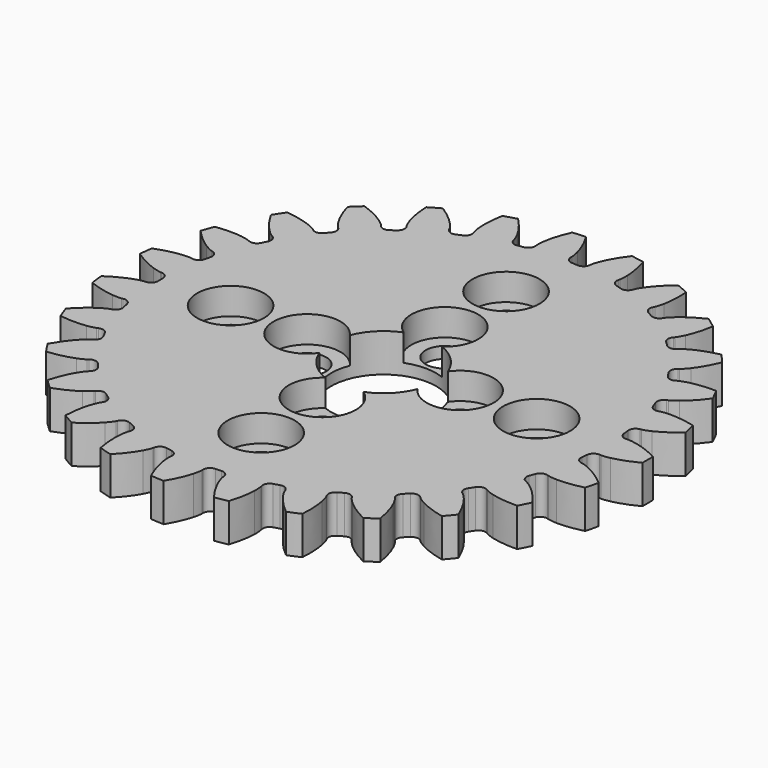
from build123d import *

# Parameters (mm, degrees)
PAD001_DEPTH    = 4
SKETCH002_R     = 5.5
SKETCH002_R_2   = 2
POCKET001_DEPTH = 5
SKETCH003_R     = 3.5
POCKET002_DEPTH = 2.8


with BuildPart() as part:
    # InvoluteGear003 → Pad001 (new body)
    with BuildSketch(Plane(origin=(0, -60, 0), x_dir=(1, 0, 0), z_dir=(0, 0, 1))):
        with BuildLine():
            Line((23.993407, -1.756615), (24.13748, -1.765721))
            add(Edge.make_bspline(
                [(24.13748, -1.765721), (24.23804, -1.767455), (24.541065, -1.761481), (25.045631, -1.655923)],
                knots=[0, 0, 0, 0, 1, 1, 1, 1], degree=3))
            add(Edge.make_bspline(
                [(25.045631, -1.655923), (25.650314, -1.527905), (26.524296, -1.258036), (27.612876, -0.692136)],
                knots=[0, 0, 0, 0, 1, 1, 1, 1], degree=3))
            ThreePointArc((27.612876, -0.692136), (27.620575, 0.000358), (27.610909, 0.692827))
            add(Edge.make_bspline(
                [(27.610909, 0.692827), (26.524296, 1.258036), (25.650314, 1.527905), (25.045631, 1.655923)],
                knots=[0, 0, 0, 0, 1, 1, 1, 1], degree=3))
            add(Edge.make_bspline(
                [(25.045631, 1.655923), (24.541065, 1.761481), (24.23804, 1.767455), (24.13748, 1.765721)],
                knots=[0, 0, 0, 0, 1, 1, 1, 1], degree=3))
            Line((24.13748, 1.765721), (23.993407, 1.756615))
            ThreePointArc((23.993407, 1.756615), (23.469192, 1.919193), (23.209751, 2.402849))
            ThreePointArc((23.209751, 2.402849), (23.176025, 2.708889), (23.138264, 3.014457))
            ThreePointArc((23.138264, 3.014457), (23.279173, 3.544907), (23.751765, 3.823995))
            Line((23.751765, 3.823995), (23.894055, 3.84836))
            add(Edge.make_bspline(
                [(23.894055, 3.84836), (23.992304, 3.869864), (24.285783, 3.945559), (24.752405, 4.164633)],
                knots=[0, 0, 0, 0, 1, 1, 1, 1], degree=3))
            add(Edge.make_bspline(
                [(24.752405, 4.164633), (25.311266, 4.42865), (26.099454, 4.892798), (27.028185, 5.694488)],
                knots=[0, 0, 0, 0, 1, 1, 1, 1], degree=3))
            ThreePointArc((27.028185, 5.694488), (26.875976, 6.370091), (26.706877, 7.041665))
            add(Edge.make_bspline(
                [(26.706877, 7.041665), (25.519208, 7.341049), (24.606548, 7.40209), (23.988641, 7.387207)],
                knots=[0, 0, 0, 0, 1, 1, 1, 1], degree=3))
            add(Edge.make_bspline(
                [(23.988641, 7.387207), (23.473332, 7.373559), (23.177098, 7.30949), (23.079648, 7.284612)],
                knots=[0, 0, 0, 0, 1, 1, 1, 1], degree=3))
            Line((23.079648, 7.284612), (22.941558, 7.242526))
            ThreePointArc((22.941558, 7.242526), (22.393981, 7.279829), (22.029994, 7.690617))
            ThreePointArc((22.029994, 7.690617), (21.9266, 7.98063), (21.819388, 8.269253))
            ThreePointArc((21.819388, 8.269253), (21.834168, 8.817901), (22.229659, 9.198453))
            Line((22.229659, 9.198453), (22.362494, 9.254975))
            add(Edge.make_bspline(
                [(22.362494, 9.254975), (22.453136, 9.298557), (22.721248, 9.439893), (23.124771, 9.760672)],
                knots=[0, 0, 0, 0, 1, 1, 1, 1], degree=3))
            add(Edge.make_bspline(
                [(23.124771, 9.760672), (23.60768, 10.146454), (24.267583, 10.779861), (24.986397, 11.774121)],
                knots=[0, 0, 0, 0, 1, 1, 1, 1], degree=3))
            ThreePointArc((24.986397, 11.774121), (24.682487, 12.396411), (24.363069, 13.010886))
            add(Edge.make_bspline(
                [(24.363069, 13.010886), (23.138372, 13.028305), (22.236236, 12.877226), (21.638417, 12.720246)],
                knots=[0, 0, 0, 0, 1, 1, 1, 1], degree=3))
            add(Edge.make_bspline(
                [(21.638417, 12.720246), (21.140145, 12.588126), (20.866672, 12.457468), (20.777586, 12.410788)],
                knots=[0, 0, 0, 0, 1, 1, 1, 1], degree=3))
            Line((20.777586, 12.410788), (20.652924, 12.33799))
            ThreePointArc((20.652924, 12.33799), (20.111504, 12.248008), (19.662595, 12.563781))
            ThreePointArc((19.662595, 12.563781), (19.495105, 12.822133), (19.324222, 13.078251))
            ThreePointArc((19.324222, 13.078251), (19.212078, 13.615519), (19.509147, 14.077019))
            Line((19.509147, 14.077019), (19.625366, 14.162652))
            add(Edge.make_bspline(
                [(19.625366, 14.162652), (19.703514, 14.225963), (19.931804, 14.42532), (20.250473, 14.830511)],
                knots=[0, 0, 0, 0, 1, 1, 1, 1], degree=3))
            add(Edge.make_bspline(
                [(20.250473, 14.830511), (20.631399, 15.317261), (21.12744, 16.085778), (21.597586, 17.219007)],
                knots=[0, 0, 0, 0, 1, 1, 1, 1], degree=3))
            ThreePointArc((21.597586, 17.219007), (21.158358, 17.754437), (20.705843, 18.278686))
            add(Edge.make_bspline(
                [(20.705843, 18.278686), (19.51014, 18.013201), (18.667162, 17.658147), (18.12166, 17.367532)],
                knots=[0, 0, 0, 0, 1, 1, 1, 1], degree=3))
            add(Edge.make_bspline(
                [(18.12166, 17.367532), (17.667288, 17.124065), (17.431318, 16.933861), (17.355399, 16.867894)],
                knots=[0, 0, 0, 0, 1, 1, 1, 1], degree=3))
            Line((17.355399, 16.867894), (17.250886, 16.76831))
            ThreePointArc((17.250886, 16.76831), (16.744811, 16.555893), (16.235179, 16.759629))
            ThreePointArc((16.235179, 16.759629), (16.012625, 16.972391), (15.787283, 17.182198))
            ThreePointArc((15.787283, 17.182198), (15.554259, 17.679121), (15.736891, 18.19669))
            Line((15.736891, 18.19669), (15.83023, 18.306817))
            add(Edge.make_bspline(
                [(15.83023, 18.306817), (15.891671, 18.386443), (16.067832, 18.633074), (16.284468, 19.100833)],
                knots=[0, 0, 0, 0, 1, 1, 1, 1], degree=3))
            add(Edge.make_bspline(
                [(16.284468, 19.100833), (16.542873, 19.66231), (16.848311, 20.524506), (17.044444, 21.735613)],
                knots=[0, 0, 0, 0, 1, 1, 1, 1], degree=3))
            ThreePointArc((17.044444, 21.735613), (16.493577, 22.155317), (15.932359, 22.561078))
            add(Edge.make_bspline(
                [(15.932359, 22.561078), (14.830112, 22.027), (14.091738, 21.487113), (13.62796, 21.07853)],
                knots=[0, 0, 0, 0, 1, 1, 1, 1], degree=3))
            add(Edge.make_bspline(
                [(13.62796, 21.07853), (13.241983, 20.73684), (13.056237, 20.497345), (12.997578, 20.415648)],
                knots=[0, 0, 0, 0, 1, 1, 1, 1], degree=3))
            Line((12.997578, 20.415648), (12.918847, 20.294646))
            ThreePointArc((12.918847, 20.294646), (12.475401, 19.971246), (11.932522, 20.051961))
            ThreePointArc((11.932522, 20.051961), (11.6669, 20.207664), (11.399247, 20.359847))
            ThreePointArc((11.399247, 20.359847), (11.057906, 20.789637), (11.116255, 21.335373))
            Line((11.116255, 21.335373), (11.181681, 21.464057))
            add(Edge.make_bspline(
                [(11.181681, 21.464057), (11.223103, 21.555706), (11.337639, 21.836314), (11.440563, 22.341424)],
                knots=[0, 0, 0, 0, 1, 1, 1, 1], degree=3))
            add(Edge.make_bspline(
                [(11.440563, 22.341424), (11.562517, 22.947359), (11.660886, 23.856754), (11.572432, 25.080446)],
                knots=[0, 0, 0, 0, 1, 1, 1, 1], degree=3))
            ThreePointArc((11.572432, 25.080446), (10.939622, 25.361798), (10.299958, 25.627196))
            add(Edge.make_bspline(
                [(10.299958, 25.627196), (9.350588, 24.853319), (8.756624, 24.157704), (8.399573, 23.65318)],
                knots=[0, 0, 0, 0, 1, 1, 1, 1], degree=3))
            add(Edge.make_bspline(
                [(8.399573, 23.65318), (8.102799, 23.231688), (7.977292, 22.955812), (7.939054, 22.86279)],
                knots=[0, 0, 0, 0, 1, 1, 1, 1], degree=3))
            Line((7.939054, 22.86279), (7.890351, 22.726892))
            ThreePointArc((7.890351, 22.726892), (7.533438, 22.309944), (6.986578, 22.263287))
            ThreePointArc((6.986578, 22.263287), (6.692209, 22.353536), (6.396675, 22.439892))
            ThreePointArc((6.396675, 22.439892), (5.965419, 22.779378), (5.89634, 23.32386))
            Line((5.89634, 23.32386), (5.930326, 23.464163))
            add(Edge.make_bspline(
                [(5.930326, 23.464163), (5.949495, 23.562895), (5.996231, 23.862353), (5.979894, 24.377584)],
                knots=[0, 0, 0, 0, 1, 1, 1, 1], degree=3))
            add(Edge.make_bspline(
                [(5.979894, 24.377584), (5.958823, 24.99531), (5.844819, 25.902877), (5.476547, 27.073186)],
                knots=[0, 0, 0, 0, 1, 1, 1, 1], degree=3))
            ThreePointArc((5.476547, 27.073186), (4.79591, 27.201018), (4.112283, 27.311745))
            add(Edge.make_bspline(
                [(4.112283, 27.311745), (3.366972, 26.339788), (2.949438, 25.525946), (2.718362, 24.95268)],
                knots=[0, 0, 0, 0, 1, 1, 1, 1], degree=3))
            add(Edge.make_bspline(
                [(2.718362, 24.95268), (2.526791, 24.474109), (2.468288, 24.176725), (2.452533, 24.077392)],
                knots=[0, 0, 0, 0, 1, 1, 1, 1], degree=3))
            Line((2.452533, 24.077392), (2.436483, 23.933926))
            ThreePointArc((2.436483, 23.933926), (2.185346, 23.445907), (1.663987, 23.274393))
            ThreePointArc((1.663987, 23.274393), (1.35674, 23.294323), (1.049256, 23.310197))
            ThreePointArc((1.049256, 23.310197), (0.551334, 23.541077), (0.358551, 24.054952))
            Line((0.358551, 24.054952), (0.359264, 24.199311))
            add(Edge.make_bspline(
                [(0.359264, 24.199311), (0.355148, 24.299802), (0.331564, 24.601966), (0.196848, 25.099541)],
                knots=[0, 0, 0, 0, 1, 1, 1, 1], degree=3))
            add(Edge.make_bspline(
                [(0.196848, 25.099541), (0.033887, 25.695758), (-0.286343, 26.55257), (-0.914581, 27.606403)],
                knots=[0, 0, 0, 0, 1, 1, 1, 1], degree=3))
            ThreePointArc((-0.914581, 27.606403), (-1.606351, 27.573824), (-2.297086, 27.523911))
            add(Edge.make_bspline(
                [(-2.297086, 27.523911), (-2.798158, 26.406273), (-3.016753, 25.518078), (-3.109395, 24.906975)],
                knots=[0, 0, 0, 0, 1, 1, 1, 1], degree=3))
            add(Edge.make_bspline(
                [(-3.109395, 24.906975), (-3.185436, 24.397124), (-3.173781, 24.094265), (-3.166204, 23.993976)],
                knots=[0, 0, 0, 0, 1, 1, 1, 1], degree=3))
            Line((-3.166204, 23.993976), (-3.148736, 23.850676))
            ThreePointArc((-3.148736, 23.850676), (-3.280558, 23.317895), (-3.74831, 23.030771))
            ThreePointArc((-3.74831, 23.030771), (-4.051872, 22.979307), (-4.354728, 22.923843))
            ThreePointArc((-4.354728, 22.923843), (-4.892473, 23.033671), (-5.198568, 23.489235))
            Line((-5.198568, 23.489235), (-5.231165, 23.629867))
            add(Edge.make_bspline(
                [(-5.231165, 23.629867), (-5.258345, 23.7267), (-5.350977, 24.015281), (-5.596811, 24.468376)],
                knots=[0, 0, 0, 0, 1, 1, 1, 1], degree=3))
            add(Edge.make_bspline(
                [(-5.596811, 24.468376), (-5.892876, 25.01094), (-6.402069, 25.770807), (-7.256403, 26.651352)],
                knots=[0, 0, 0, 0, 1, 1, 1, 1], degree=3))
            ThreePointArc((-7.256403, 26.651352), (-7.922013, 26.460118), (-8.582619, 26.252256))
            add(Edge.make_bspline(
                [(-8.582619, 26.252256), (-8.812439, 25.049189), (-8.82031, 24.134524), (-8.769525, 23.518528)],
                knots=[0, 0, 0, 0, 1, 1, 1, 1], degree=3))
            add(Edge.make_bspline(
                [(-8.769525, 23.518528), (-8.725937, 23.004884), (-8.644752, 22.712877), (-8.61425, 22.617038)],
                knots=[0, 0, 0, 0, 1, 1, 1, 1], degree=3))
            Line((-8.61425, 22.617038), (-8.564206, 22.481629))
            ThreePointArc((-8.564206, 22.481629), (-8.569607, 21.932809), (-8.958535, 21.545553))
            ThreePointArc((-8.958535, 21.545553), (-9.242046, 21.425471), (-9.523947, 21.301658))
            ThreePointArc((-9.523947, 21.301658), (-10.072526, 21.284513), (-10.47543, 21.657208))
            Line((-10.47543, 21.657208), (-10.53958, 21.786532))
            add(Edge.make_bspline(
                [(-10.53958, 21.786532), (-10.588359, 21.874486), (-10.745045, 22.133926), (-11.088744, 22.518114)],
                knots=[0, 0, 0, 0, 1, 1, 1, 1], degree=3))
            add(Edge.make_bspline(
                [(-11.088744, 22.518114), (-11.501953, 22.977776), (-12.172657, 23.599733), (-13.20703, 24.25952)],
                knots=[0, 0, 0, 0, 1, 1, 1, 1], degree=3))
            ThreePointArc((-13.20703, 24.25952), (-13.810597, 23.91994), (-14.40546, 23.565335))
            add(Edge.make_bspline(
                [(-14.40546, 23.565335), (-14.351639, 22.341697), (-14.148362, 21.449871), (-13.956887, 20.862191)],
                knots=[0, 0, 0, 0, 1, 1, 1, 1], degree=3))
            add(Edge.make_bspline(
                [(-13.956887, 20.862191), (-13.796019, 20.372445), (-13.649681, 20.107031), (-13.5979, 20.02081)],
                knots=[0, 0, 0, 0, 1, 1, 1, 1], degree=3))
            Line((-13.5979, 20.02081), (-13.517977, 19.900592))
            ThreePointArc((-13.517977, 19.900592), (-13.396666, 19.36532), (-13.685804, 18.89881))
            ThreePointArc((-13.685804, 18.89881), (-13.933979, 18.716582), (-14.179729, 18.531096))
            ThreePointArc((-14.179729, 18.531096), (-14.709566, 18.387902), (-15.187559, 18.657634))
            Line((-15.187559, 18.657634), (-15.279805, 18.768678))
            add(Edge.make_bspline(
                [(-15.279805, 18.768678), (-15.347552, 18.843013), (-15.559846, 19.059325), (-15.98288, 19.353895)],
                knots=[0, 0, 0, 0, 1, 1, 1, 1], degree=3))
            add(Edge.make_bspline(
                [(-15.98288, 19.353895), (-16.490956, 19.705874), (-17.287014, 20.156391), (-18.445663, 20.55985)],
                knots=[0, 0, 0, 0, 1, 1, 1, 1], degree=3))
            ThreePointArc((-18.445663, 20.55985), (-18.954649, 20.090233), (-19.451699, 19.608001))
            add(Edge.make_bspline(
                [(-19.451699, 19.608001), (-19.117139, 18.429757), (-18.713671, 17.608851), (-18.39183, 17.081169)],
                knots=[0, 0, 0, 0, 1, 1, 1, 1], degree=3))
            add(Edge.make_bspline(
                [(-18.39183, 17.081169), (-18.122355, 16.641722), (-17.918753, 16.41721), (-17.848483, 16.345255)],
                knots=[0, 0, 0, 0, 1, 1, 1, 1], degree=3))
            Line((-17.848483, 16.345255), (-17.74299, 16.246709))
            ThreePointArc((-17.74299, 16.246709), (-17.501507, 15.753842), (-17.675266, 15.233226))
            ThreePointArc((-17.675266, 15.233226), (-17.874728, 14.998678), (-18.071077, 14.761517))
            ThreePointArc((-18.071077, 14.761517), (-18.55361, 14.499994), (-19.080923, 14.652223))
            Line((-19.080923, 14.652223), (-19.196291, 14.739001))
            add(Edge.make_bspline(
                [(-19.196291, 14.739001), (-19.279355, 14.795708), (-19.535811, 14.957231), (-20.015375, 15.146303)],
                knots=[0, 0, 0, 0, 1, 1, 1, 1], degree=3))
            add(Edge.make_bspline(
                [(-20.015375, 15.146303), (-20.590927, 15.371624), (-21.469424, 15.626413), (-22.689886, 15.751794)],
                knots=[0, 0, 0, 0, 1, 1, 1, 1], degree=3))
            ThreePointArc((-22.689886, 15.751794), (-23.07685, 15.177455), (-23.449292, 14.593594))
            add(Edge.make_bspline(
                [(-23.449292, 14.593594), (-22.852028, 13.524265), (-22.270122, 12.818532), (-21.835264, 12.379296)],
                knots=[0, 0, 0, 0, 1, 1, 1, 1], degree=3))
            add(Edge.make_bspline(
                [(-21.835264, 12.379296), (-21.47171, 12.01384), (-21.22182, 11.842334), (-21.13685, 11.788523)],
                knots=[0, 0, 0, 0, 1, 1, 1, 1], degree=3))
            Line((-21.13685, 11.788523), (-21.011475, 11.716962))
            ThreePointArc((-21.011475, 11.716962), (-20.662838, 11.293069), (-20.711851, 10.746416))
            ThreePointArc((-20.711851, 10.746416), (-20.851845, 10.47219), (-20.988209, 10.196142))
            ThreePointArc((-20.988209, 10.196142), (-21.397424, 9.830388), (-21.94563, 9.856907))
            Line((-21.94563, 9.856907), (-22.0779, 9.91474))
            add(Edge.make_bspline(
                [(-22.0779, 9.91474), (-22.171802, 9.950762), (-22.458596, 10.048789), (-22.968836, 10.122169)],
                knots=[0, 0, 0, 0, 1, 1, 1, 1], degree=3))
            add(Edge.make_bspline(
                [(-22.968836, 10.122169), (-23.580837, 10.208685), (-24.494412, 10.254011), (-25.710891, 10.094555)],
                knots=[0, 0, 0, 0, 1, 1, 1, 1], degree=3))
            ThreePointArc((-25.710891, 10.094555), (-25.954973, 9.446457), (-26.182728, 8.792443))
            add(Edge.make_bspline(
                [(-26.182728, 8.792443), (-25.354959, 7.889677), (-24.625985, 7.337163), (-24.101554, 7.010052)],
                knots=[0, 0, 0, 0, 1, 1, 1, 1], degree=3))
            add(Edge.make_bspline(
                [(-24.101554, 7.010052), (-23.663519, 6.738288), (-23.380813, 6.629034), (-23.285724, 6.596269)],
                knots=[0, 0, 0, 0, 1, 1, 1, 1], degree=3))
            Line((-23.285724, 6.596269), (-23.147225, 6.55555))
            ThreePointArc((-23.147225, 6.55555), (-22.710229, 6.223485), (-22.631854, 5.680263))
            ThreePointArc((-22.631854, 5.680263), (-22.704834, 5.381145), (-22.773861, 5.081089))
            ThreePointArc((-22.773861, 5.081089), (-23.087697, 4.630823), (-23.627241, 4.530202))
            Line((-23.627241, 4.530202), (-23.769283, 4.555973))
            add(Edge.make_bspline(
                [(-23.769283, 4.555973), (-23.868962, 4.569369), (-24.170631, 4.598614), (-24.684041, 4.552347)],
                knots=[0, 0, 0, 0, 1, 1, 1, 1], degree=3))
            add(Edge.make_bspline(
                [(-24.684041, 4.552347), (-25.299497, 4.495393), (-26.1989, 4.328812), (-27.345815, 3.893115)],
                knots=[0, 0, 0, 0, 1, 1, 1, 1], degree=3))
            ThreePointArc((-27.345815, 3.893115), (-27.433856, 3.206198), (-27.504646, 2.517289))
            add(Edge.make_bspline(
                [(-27.504646, 2.517289), (-26.490998, 1.829753), (-25.654255, 1.460246), (-25.068523, 1.262894)],
                knots=[0, 0, 0, 0, 1, 1, 1, 1], degree=3))
            add(Edge.make_bspline(
                [(-25.068523, 1.262894), (-24.579622, 1.099474), (-24.27934, 1.058361), (-24.179259, 1.048408)],
                knots=[0, 0, 0, 0, 1, 1, 1, 1], degree=3))
            Line((-24.179259, 1.048408), (-24.035103, 1.040727))
            ThreePointArc((-24.035103, 1.040727), (-23.533307, 0.818391), (-23.331769, 0.307886))
            ThreePointArc((-23.331769, 0.307886), (-23.3338, 0), (-23.331769, -0.307886))
            ThreePointArc((-23.331769, -0.307886), (-23.533307, -0.818391), (-24.035103, -1.040727))
            Line((-24.035103, -1.040727), (-24.179259, -1.048408))
            add(Edge.make_bspline(
                [(-24.179259, -1.048408), (-24.27934, -1.058361), (-24.579622, -1.099474), (-25.068523, -1.262894)],
                knots=[0, 0, 0, 0, 1, 1, 1, 1], degree=3))
            add(Edge.make_bspline(
                [(-25.068523, -1.262894), (-25.654255, -1.460246), (-26.490998, -1.829753), (-27.506519, -2.518203)],
                knots=[0, 0, 0, 0, 1, 1, 1, 1], degree=3))
            ThreePointArc((-27.506519, -2.518203), (-27.433773, -3.206908), (-27.343782, -3.893573))
            add(Edge.make_bspline(
                [(-27.343782, -3.893573), (-26.1989, -4.328812), (-25.299497, -4.495393), (-24.684041, -4.552347)],
                knots=[0, 0, 0, 0, 1, 1, 1, 1], degree=3))
            add(Edge.make_bspline(
                [(-24.684041, -4.552347), (-24.170631, -4.598614), (-23.868962, -4.569369), (-23.769283, -4.555973)],
                knots=[0, 0, 0, 0, 1, 1, 1, 1], degree=3))
            Line((-23.769283, -4.555973), (-23.627241, -4.530202))
            ThreePointArc((-23.627241, -4.530202), (-23.087697, -4.630823), (-22.773861, -5.081089))
            ThreePointArc((-22.773861, -5.081089), (-22.704834, -5.381145), (-22.631854, -5.680263))
            ThreePointArc((-22.631854, -5.680263), (-22.710229, -6.223485), (-23.147225, -6.55555))
            Line((-23.147225, -6.55555), (-23.285724, -6.596269))
            add(Edge.make_bspline(
                [(-23.285724, -6.596269), (-23.380813, -6.629034), (-23.663519, -6.738288), (-24.101554, -7.010052)],
                knots=[0, 0, 0, 0, 1, 1, 1, 1], degree=3))
            add(Edge.make_bspline(
                [(-24.101554, -7.010052), (-24.625985, -7.337163), (-25.354959, -7.889677), (-26.18434, -8.793765)],
                knots=[0, 0, 0, 0, 1, 1, 1, 1], degree=3))
            ThreePointArc((-26.18434, -8.793765), (-25.954728, -9.447129), (-25.708807, -10.094531))
            add(Edge.make_bspline(
                [(-25.708807, -10.094531), (-24.494412, -10.254011), (-23.580837, -10.208685), (-22.968836, -10.122169)],
                knots=[0, 0, 0, 0, 1, 1, 1, 1], degree=3))
            add(Edge.make_bspline(
                [(-22.968836, -10.122169), (-22.458596, -10.048789), (-22.171802, -9.950762), (-22.0779, -9.91474)],
                knots=[0, 0, 0, 0, 1, 1, 1, 1], degree=3))
            Line((-22.0779, -9.91474), (-21.94563, -9.856907))
            ThreePointArc((-21.94563, -9.856907), (-21.397424, -9.830388), (-20.988209, -10.196142))
            ThreePointArc((-20.988209, -10.196142), (-20.851845, -10.47219), (-20.711851, -10.746416))
            ThreePointArc((-20.711851, -10.746416), (-20.662838, -11.293069), (-21.011475, -11.716962))
            Line((-21.011475, -11.716962), (-21.13685, -11.788523))
            add(Edge.make_bspline(
                [(-21.13685, -11.788523), (-21.22182, -11.842334), (-21.47171, -12.01384), (-21.835264, -12.379296)],
                knots=[0, 0, 0, 0, 1, 1, 1, 1], degree=3))
            add(Edge.make_bspline(
                [(-21.835264, -12.379296), (-22.270122, -12.818532), (-22.852028, -13.524265), (-23.450556, -14.595252)],
                knots=[0, 0, 0, 0, 1, 1, 1, 1], degree=3))
            ThreePointArc((-23.450556, -14.595252), (-23.076457, -15.178053), (-22.687863, -15.751291))
            add(Edge.make_bspline(
                [(-22.687863, -15.751291), (-21.469424, -15.626413), (-20.590927, -15.371624), (-20.015375, -15.146303)],
                knots=[0, 0, 0, 0, 1, 1, 1, 1], degree=3))
            add(Edge.make_bspline(
                [(-20.015375, -15.146303), (-19.535811, -14.957231), (-19.279355, -14.795708), (-19.196291, -14.739001)],
                knots=[0, 0, 0, 0, 1, 1, 1, 1], degree=3))
            Line((-19.196291, -14.739001), (-19.080923, -14.652223))
            ThreePointArc((-19.080923, -14.652223), (-18.55361, -14.499994), (-18.071077, -14.761517))
            ThreePointArc((-18.071077, -14.761517), (-17.874728, -14.998678), (-17.675266, -15.233226))
            ThreePointArc((-17.675266, -15.233226), (-17.501507, -15.753842), (-17.74299, -16.246709))
            Line((-17.74299, -16.246709), (-17.848483, -16.345255))
            add(Edge.make_bspline(
                [(-17.848483, -16.345255), (-17.918753, -16.41721), (-18.122355, -16.641722), (-18.39183, -17.081169)],
                knots=[0, 0, 0, 0, 1, 1, 1, 1], degree=3))
            add(Edge.make_bspline(
                [(-18.39183, -17.081169), (-18.713671, -17.608851), (-19.117139, -18.429757), (-19.452547, -19.609905)],
                knots=[0, 0, 0, 0, 1, 1, 1, 1], degree=3))
            ThreePointArc((-19.452547, -19.609905), (-18.954128, -20.090723), (-18.443811, -20.558894))
            add(Edge.make_bspline(
                [(-18.443811, -20.558894), (-17.287014, -20.156391), (-16.490956, -19.705874), (-15.98288, -19.353895)],
                knots=[0, 0, 0, 0, 1, 1, 1, 1], degree=3))
            add(Edge.make_bspline(
                [(-15.98288, -19.353895), (-15.559846, -19.059325), (-15.347552, -18.843013), (-15.279805, -18.768678)],
                knots=[0, 0, 0, 0, 1, 1, 1, 1], degree=3))
            Line((-15.279805, -18.768678), (-15.187559, -18.657634))
            ThreePointArc((-15.187559, -18.657634), (-14.709566, -18.387902), (-14.179729, -18.531096))
            ThreePointArc((-14.179729, -18.531096), (-13.933979, -18.716582), (-13.685804, -18.89881))
            ThreePointArc((-13.685804, -18.89881), (-13.396666, -19.36532), (-13.517977, -19.900592))
            Line((-13.517977, -19.900592), (-13.5979, -20.02081))
            add(Edge.make_bspline(
                [(-13.5979, -20.02081), (-13.649681, -20.107031), (-13.796019, -20.372445), (-13.956887, -20.862191)],
                knots=[0, 0, 0, 0, 1, 1, 1, 1], degree=3))
            add(Edge.make_bspline(
                [(-13.956887, -20.862191), (-14.148362, -21.449871), (-14.351639, -22.341697), (-14.405845, -23.567384)],
                knots=[0, 0, 0, 0, 1, 1, 1, 1], degree=3))
            ThreePointArc((-14.405845, -23.567384), (-13.809978, -23.920298), (-13.205449, -24.258162))
            add(Edge.make_bspline(
                [(-13.205449, -24.258162), (-12.172657, -23.599733), (-11.501953, -22.977776), (-11.088744, -22.518114)],
                knots=[0, 0, 0, 0, 1, 1, 1, 1], degree=3))
            add(Edge.make_bspline(
                [(-11.088744, -22.518114), (-10.745045, -22.133926), (-10.588359, -21.874486), (-10.53958, -21.786532)],
                knots=[0, 0, 0, 0, 1, 1, 1, 1], degree=3))
            Line((-10.53958, -21.786532), (-10.47543, -21.657208))
            ThreePointArc((-10.47543, -21.657208), (-10.072526, -21.284513), (-9.523947, -21.301658))
            ThreePointArc((-9.523947, -21.301658), (-9.242046, -21.425471), (-8.958535, -21.545553))
            ThreePointArc((-8.958535, -21.545553), (-8.569607, -21.932809), (-8.564206, -22.481629))
            Line((-8.564206, -22.481629), (-8.61425, -22.617038))
            add(Edge.make_bspline(
                [(-8.61425, -22.617038), (-8.644752, -22.712877), (-8.725937, -23.004884), (-8.769525, -23.518528)],
                knots=[0, 0, 0, 0, 1, 1, 1, 1], degree=3))
            add(Edge.make_bspline(
                [(-8.769525, -23.518528), (-8.82031, -24.134524), (-8.812439, -25.049189), (-8.582521, -26.254338)],
                knots=[0, 0, 0, 0, 1, 1, 1, 1], degree=3))
            ThreePointArc((-8.582521, -26.254338), (-7.921327, -26.460323), (-7.255177, -26.649666))
            add(Edge.make_bspline(
                [(-7.255177, -26.649666), (-6.402069, -25.770807), (-5.892876, -25.01094), (-5.596811, -24.468376)],
                knots=[0, 0, 0, 0, 1, 1, 1, 1], degree=3))
            add(Edge.make_bspline(
                [(-5.596811, -24.468376), (-5.350977, -24.015281), (-5.258345, -23.7267), (-5.231165, -23.629867)],
                knots=[0, 0, 0, 0, 1, 1, 1, 1], degree=3))
            Line((-5.231165, -23.629867), (-5.198568, -23.489235))
            ThreePointArc((-5.198568, -23.489235), (-4.892473, -23.033671), (-4.354728, -22.923843))
            ThreePointArc((-4.354728, -22.923843), (-4.051872, -22.979307), (-3.74831, -23.030771))
            ThreePointArc((-3.74831, -23.030771), (-3.280558, -23.317895), (-3.148736, -23.850676))
            Line((-3.148736, -23.850676), (-3.166204, -23.993976))
            add(Edge.make_bspline(
                [(-3.166204, -23.993976), (-3.173781, -24.094265), (-3.185436, -24.397124), (-3.109395, -24.906975)],
                knots=[0, 0, 0, 0, 1, 1, 1, 1], degree=3))
            add(Edge.make_bspline(
                [(-3.109395, -24.906975), (-3.016753, -25.518078), (-2.798158, -26.406273), (-2.296511, -27.525915)],
                knots=[0, 0, 0, 0, 1, 1, 1, 1], degree=3))
            ThreePointArc((-2.296511, -27.525915), (-1.605636, -27.573866), (-0.913777, -27.60448))
            add(Edge.make_bspline(
                [(-0.913777, -27.60448), (-0.286343, -26.55257), (0.033887, -25.695758), (0.196848, -25.099541)],
                knots=[0, 0, 0, 0, 1, 1, 1, 1], degree=3))
            add(Edge.make_bspline(
                [(0.196848, -25.099541), (0.331564, -24.601966), (0.355148, -24.299802), (0.359264, -24.199311)],
                knots=[0, 0, 0, 0, 1, 1, 1, 1], degree=3))
            Line((0.359264, -24.199311), (0.358551, -24.054952))
            ThreePointArc((0.358551, -24.054952), (0.551334, -23.541077), (1.049256, -23.310197))
            ThreePointArc((1.049256, -23.310197), (1.35674, -23.294323), (1.663987, -23.274393))
            ThreePointArc((1.663987, -23.274393), (2.185346, -23.445907), (2.436483, -23.933926))
            Line((2.436483, -23.933926), (2.452533, -24.077392))
            add(Edge.make_bspline(
                [(2.452533, -24.077392), (2.468288, -24.176725), (2.526791, -24.474109), (2.718362, -24.95268)],
                knots=[0, 0, 0, 0, 1, 1, 1, 1], degree=3))
            add(Edge.make_bspline(
                [(2.718362, -24.95268), (2.949438, -25.525946), (3.366972, -26.339788), (4.113305, -27.313562)],
                knots=[0, 0, 0, 0, 1, 1, 1, 1], degree=3))
            ThreePointArc((4.113305, -27.313562), (4.796615, -27.200894), (5.476885, -27.071129))
            add(Edge.make_bspline(
                [(5.476885, -27.071129), (5.844819, -25.902877), (5.958823, -24.99531), (5.979894, -24.377584)],
                knots=[0, 0, 0, 0, 1, 1, 1, 1], degree=3))
            add(Edge.make_bspline(
                [(5.979894, -24.377584), (5.996231, -23.862353), (5.949495, -23.562895), (5.930326, -23.464163)],
                knots=[0, 0, 0, 0, 1, 1, 1, 1], degree=3))
            Line((5.930326, -23.464163), (5.89634, -23.32386))
            ThreePointArc((5.89634, -23.32386), (5.965419, -22.779378), (6.396675, -22.439892))
            ThreePointArc((6.396675, -22.439892), (6.692209, -22.353536), (6.986578, -22.263287))
            ThreePointArc((6.986578, -22.263287), (7.533438, -22.309944), (7.890351, -22.726892))
            Line((7.890351, -22.726892), (7.939054, -22.86279))
            add(Edge.make_bspline(
                [(7.939054, -22.86279), (7.977292, -22.955812), (8.102799, -23.231688), (8.399573, -23.65318)],
                knots=[0, 0, 0, 0, 1, 1, 1, 1], degree=3))
            add(Edge.make_bspline(
                [(8.399573, -23.65318), (8.756624, -24.157704), (9.350588, -24.853319), (10.301371, -25.628728)],
                knots=[0, 0, 0, 0, 1, 1, 1, 1], degree=3))
            ThreePointArc((10.301371, -25.628728), (10.940279, -25.361515), (11.572287, -25.078367))
            add(Edge.make_bspline(
                [(11.572287, -25.078367), (11.660886, -23.856754), (11.562517, -22.947359), (11.440563, -22.341424)],
                knots=[0, 0, 0, 0, 1, 1, 1, 1], degree=3))
            add(Edge.make_bspline(
                [(11.440563, -22.341424), (11.337639, -21.836314), (11.223103, -21.555706), (11.181681, -21.464057)],
                knots=[0, 0, 0, 0, 1, 1, 1, 1], degree=3))
            Line((11.181681, -21.464057), (11.116255, -21.335373))
            ThreePointArc((11.116255, -21.335373), (11.057906, -20.789637), (11.399247, -20.359847))
            ThreePointArc((11.399247, -20.359847), (11.6669, -20.207664), (11.932522, -20.051961))
            ThreePointArc((11.932522, -20.051961), (12.475401, -19.971246), (12.918847, -20.294646))
            Line((12.918847, -20.294646), (12.997578, -20.415648))
            add(Edge.make_bspline(
                [(12.997578, -20.415648), (13.056237, -20.497345), (13.241983, -20.73684), (13.62796, -21.07853)],
                knots=[0, 0, 0, 0, 1, 1, 1, 1], degree=3))
            add(Edge.make_bspline(
                [(13.62796, -21.07853), (14.091738, -21.487113), (14.830112, -22.027), (15.934088, -22.562243)],
                knots=[0, 0, 0, 0, 1, 1, 1, 1], degree=3))
            ThreePointArc((15.934088, -22.562243), (16.49415, -22.15489), (17.043824, -21.733623))
            add(Edge.make_bspline(
                [(17.043824, -21.733623), (16.848311, -20.524506), (16.542873, -19.66231), (16.284468, -19.100833)],
                knots=[0, 0, 0, 0, 1, 1, 1, 1], degree=3))
            add(Edge.make_bspline(
                [(16.284468, -19.100833), (16.067832, -18.633074), (15.891671, -18.386443), (15.83023, -18.306817)],
                knots=[0, 0, 0, 0, 1, 1, 1, 1], degree=3))
            Line((15.83023, -18.306817), (15.736891, -18.19669))
            ThreePointArc((15.736891, -18.19669), (15.554259, -17.679121), (15.787283, -17.182198))
            ThreePointArc((15.787283, -17.182198), (16.012625, -16.972391), (16.235179, -16.759629))
            ThreePointArc((16.235179, -16.759629), (16.744811, -16.555893), (17.250886, -16.76831))
            Line((17.250886, -16.76831), (17.355399, -16.867894))
            add(Edge.make_bspline(
                [(17.355399, -16.867894), (17.431318, -16.933861), (17.667288, -17.124065), (18.12166, -17.367532)],
                knots=[0, 0, 0, 0, 1, 1, 1, 1], degree=3))
            add(Edge.make_bspline(
                [(18.12166, -17.367532), (18.667162, -17.658147), (19.51014, -18.013201), (20.707793, -18.279421)],
                knots=[0, 0, 0, 0, 1, 1, 1, 1], degree=3))
            ThreePointArc((20.707793, -18.279421), (21.158818, -17.753889), (21.596524, -17.217214))
            add(Edge.make_bspline(
                [(21.596524, -17.217214), (21.12744, -16.085778), (20.631399, -15.317261), (20.250473, -14.830511)],
                knots=[0, 0, 0, 0, 1, 1, 1, 1], degree=3))
            add(Edge.make_bspline(
                [(20.250473, -14.830511), (19.931804, -14.42532), (19.703514, -14.225963), (19.625366, -14.162652)],
                knots=[0, 0, 0, 0, 1, 1, 1, 1], degree=3))
            Line((19.625366, -14.162652), (19.509147, -14.077019))
            ThreePointArc((19.509147, -14.077019), (19.212078, -13.615519), (19.324222, -13.078251))
            ThreePointArc((19.324222, -13.078251), (19.495105, -12.822133), (19.662595, -12.563781))
            ThreePointArc((19.662595, -12.563781), (20.111504, -12.248008), (20.652924, -12.33799))
            Line((20.652924, -12.33799), (20.777586, -12.410788))
            add(Edge.make_bspline(
                [(20.777586, -12.410788), (20.866672, -12.457468), (21.140145, -12.588126), (21.638417, -12.720246)],
                knots=[0, 0, 0, 0, 1, 1, 1, 1], degree=3))
            add(Edge.make_bspline(
                [(21.638417, -12.720246), (22.236236, -12.877226), (23.138372, -13.028305), (24.365137, -13.011151)],
                knots=[0, 0, 0, 0, 1, 1, 1, 1], degree=3))
            ThreePointArc((24.365137, -13.011151), (24.682808, -12.395772), (24.98495, -11.772621))
            add(Edge.make_bspline(
                [(24.98495, -11.772621), (24.267583, -10.779861), (23.60768, -10.146454), (23.124771, -9.760672)],
                knots=[0, 0, 0, 0, 1, 1, 1, 1], degree=3))
            add(Edge.make_bspline(
                [(23.124771, -9.760672), (22.721248, -9.439893), (22.453136, -9.298557), (22.362494, -9.254975)],
                knots=[0, 0, 0, 0, 1, 1, 1, 1], degree=3))
            Line((22.362494, -9.254975), (22.229659, -9.198453))
            ThreePointArc((22.229659, -9.198453), (21.834168, -8.817901), (21.819388, -8.269253))
            ThreePointArc((21.819388, -8.269253), (21.9266, -7.98063), (22.029994, -7.690617))
            ThreePointArc((22.029994, -7.690617), (22.393981, -7.279829), (22.941558, -7.242526))
            Line((22.941558, -7.242526), (23.079648, -7.284612))
            add(Edge.make_bspline(
                [(23.079648, -7.284612), (23.177098, -7.30949), (23.473332, -7.373559), (23.988641, -7.387207)],
                knots=[0, 0, 0, 0, 1, 1, 1, 1], degree=3))
            add(Edge.make_bspline(
                [(23.988641, -7.387207), (24.606548, -7.40209), (25.519208, -7.341049), (26.708949, -7.041447)],
                knots=[0, 0, 0, 0, 1, 1, 1, 1], degree=3))
            ThreePointArc((26.708949, -7.041447), (26.876141, -6.369395), (27.02643, -5.693362))
            add(Edge.make_bspline(
                [(27.02643, -5.693362), (26.099454, -4.892798), (25.311266, -4.42865), (24.752405, -4.164633)],
                knots=[0, 0, 0, 0, 1, 1, 1, 1], degree=3))
            add(Edge.make_bspline(
                [(24.752405, -4.164633), (24.285783, -3.945559), (23.992304, -3.869864), (23.894055, -3.84836)],
                knots=[0, 0, 0, 0, 1, 1, 1, 1], degree=3))
            Line((23.894055, -3.84836), (23.751765, -3.823995))
            ThreePointArc((23.751765, -3.823995), (23.279173, -3.544907), (23.138264, -3.014457))
            ThreePointArc((23.138264, -3.014457), (23.176025, -2.708889), (23.209751, -2.402849))
            ThreePointArc((23.209751, -2.402849), (23.469192, -1.919193), (23.993407, -1.756615))
        make_face()
    extrude(amount=-PAD001_DEPTH)

    # Sketch002 (on Face272 of Pad001) → Pocket001 (cut)
    with BuildSketch(Plane(origin=(0, -60, -4), x_dir=(1, 0, 0), z_dir=(0, 0, -1))):
        Circle(SKETCH002_R)
        with Locations((0, 8)):
            Circle(SKETCH002_R_2)
        with Locations((0, 16)):
            Circle(SKETCH002_R_2)
        with Locations((8, 0)):
            Circle(SKETCH002_R_2)
        with Locations((16, 0)):
            Circle(SKETCH002_R_2)
        with Locations((0, -8)):
            Circle(SKETCH002_R_2)
        with Locations((0, -16)):
            Circle(SKETCH002_R_2)
        with Locations((-8, 0)):
            Circle(SKETCH002_R_2)
        with Locations((-16, 0)):
            Circle(SKETCH002_R_2)
    extrude(amount=-POCKET001_DEPTH, mode=Mode.SUBTRACT)

    # Sketch003 (on Face4 of Pocket001) → Pocket002 (cut)
    with BuildSketch(Plane(origin=(0, -60, 0), x_dir=(1, 0, 0), z_dir=(0, 0, 1))):
        with Locations((0, 8)):
            Circle(SKETCH003_R)
        with Locations((0, 16)):
            Circle(SKETCH003_R)
        with Locations((8, 0)):
            Circle(SKETCH003_R)
        with Locations((16, 0)):
            Circle(SKETCH003_R)
        with Locations((0, -8)):
            Circle(SKETCH003_R)
        with Locations((0, -16)):
            Circle(SKETCH003_R)
        with Locations((-8, 0)):
            Circle(SKETCH003_R)
        with Locations((-16, 0)):
            Circle(SKETCH003_R)
    extrude(amount=-POCKET002_DEPTH, mode=Mode.SUBTRACT)


with BuildPart() as part_1:
    # Body002 placement: moved
    add(part.part.moved(Location((0, -99, -8))))


solid = part_1.part
